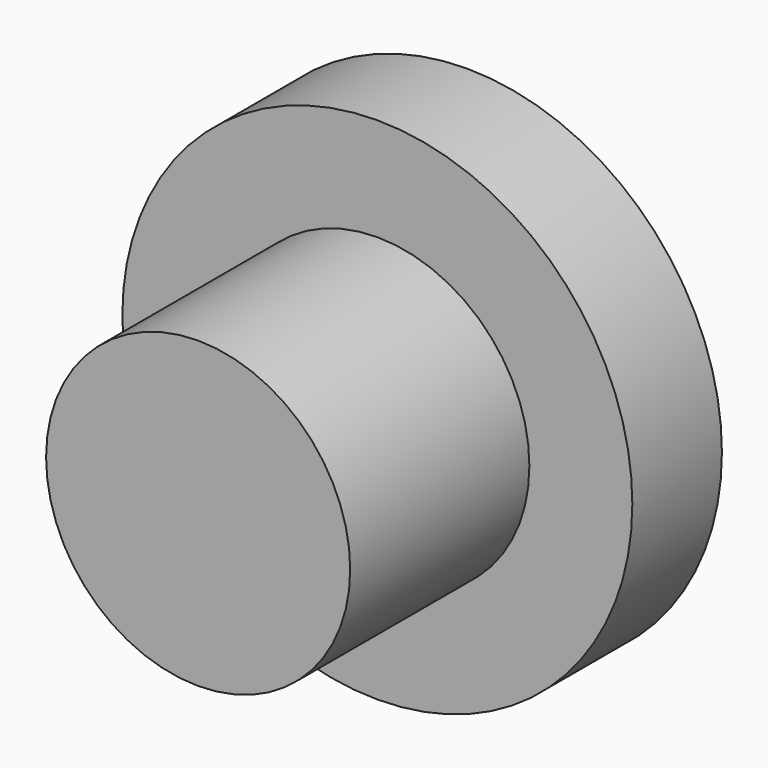
from build123d import *

# Parameters (mm, degrees)
F0_R     = 11.566794
F1_DEPTH = 5.08
F2_R     = 6.495217
F3_DEPTH = 2.54
F4_R     = 6.897415
F5_DEPTH = 12.7


with BuildPart() as f1:
    # F0 (on Front) → F1 (new body)
    with BuildSketch(Plane.XZ):
        with Locations((-44.537589, 34.487069)):
            Circle(F0_R)
    extrude(amount=F1_DEPTH)

    # F2 (on face) → F3 (cut)
    with BuildSketch(Plane.XZ.offset(5.08)):
        with Locations((-44.537589, 34.487069)):
            Circle(F2_R)
    extrude(amount=-F3_DEPTH, mode=Mode.SUBTRACT)

    # F4 (on face) → F5 (join)
    with BuildSketch(Plane.XZ.offset(2.54)):
        with Locations((-44.537589, 34.487069)):
            Circle(F4_R)
    extrude(amount=F5_DEPTH)


solid = f1.part
